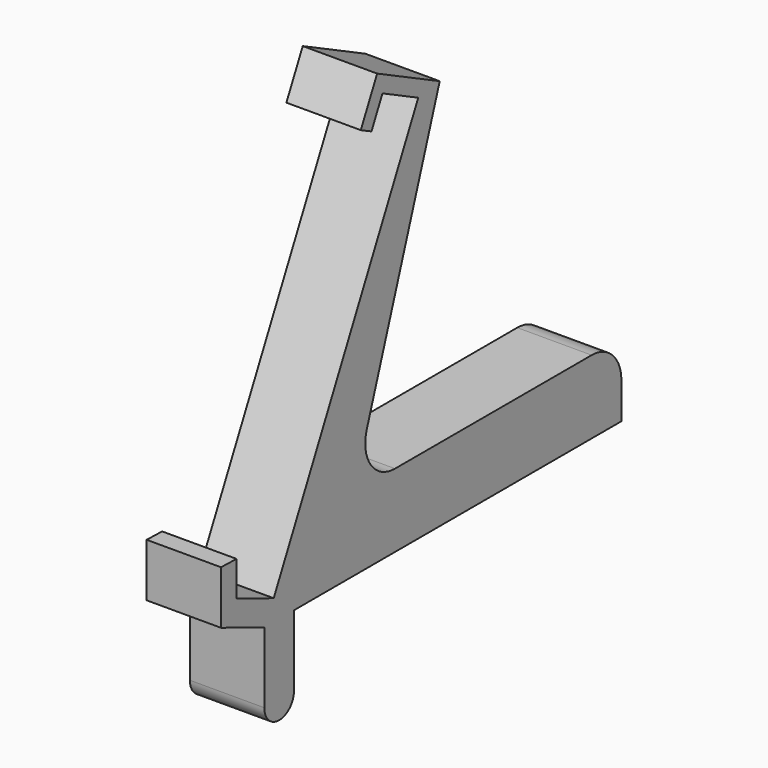
from build123d import *

# Parameters (mm, degrees)
F1_DEPTH = 12.7
F3_DEPTH = 12.7


with BuildPart() as f1:
    # F0 (on Right) → F1 (new body)
    with BuildSketch(Plane.YZ):
        with BuildLine():
            Line((-254, 30.48), (-177.8, 30.48))
            Line((-177.8, 30.48), (-177.8, 36.651972))
            ThreePointArc((-177.8, 36.651972), (-179.659872, 41.1421), (-184.15, 43.001972))
            Line((-184.15, 43.001972), (-226.105012, 43.001972))
            ThreePointArc((-226.105012, 43.001972), (-231.264992, 45.651011), (-232.119778, 51.387921))
            Line((-232.119778, 51.387921), (-216.562416, 97.348726))
            Line((-216.562416, 97.348726), (-229.917262, 103.920899))
            Line((-229.917262, 103.920899), (-233.404353, 96.835028))
            Line((-233.404353, 96.835028), (-231.125369, 95.713497))
            Line((-231.125369, 95.713497), (-228.779319, 100.480739))
            Line((-228.779319, 100.480739), (-221.144723, 96.723609))
            Line((-221.144723, 96.723609), (-251.986832, 34.051552))
            Line((-251.986832, 34.051552), (-259.914278, 37.22636))
            Line((-259.914278, 37.22636), (-259.914278, 43.183118))
            Line((-259.914278, 43.183118), (-263.23086, 43.274231))
            Line((-263.23086, 43.274231), (-263.23086, 34.176804))
            Line((-263.23086, 34.176804), (-254, 30.48))
        make_face()
    extrude(amount=F1_DEPTH)

    # F2 (on face) → F3 (join)
    with BuildSketch(Plane.YZ.offset(12.7)):
        with BuildLine():
            Line((-247.65, 30.48), (-254, 30.48))
            Line((-254, 30.48), (-254, 18.415))
            ThreePointArc((-254, 18.415), (-253.070064, 16.169936), (-250.825, 15.24))
            ThreePointArc((-250.825, 15.24), (-248.579936, 16.169936), (-247.65, 18.415))
            Line((-247.65, 18.415), (-247.65, 30.48))
        make_face()
    extrude(amount=-F3_DEPTH)


solid = f1.part
